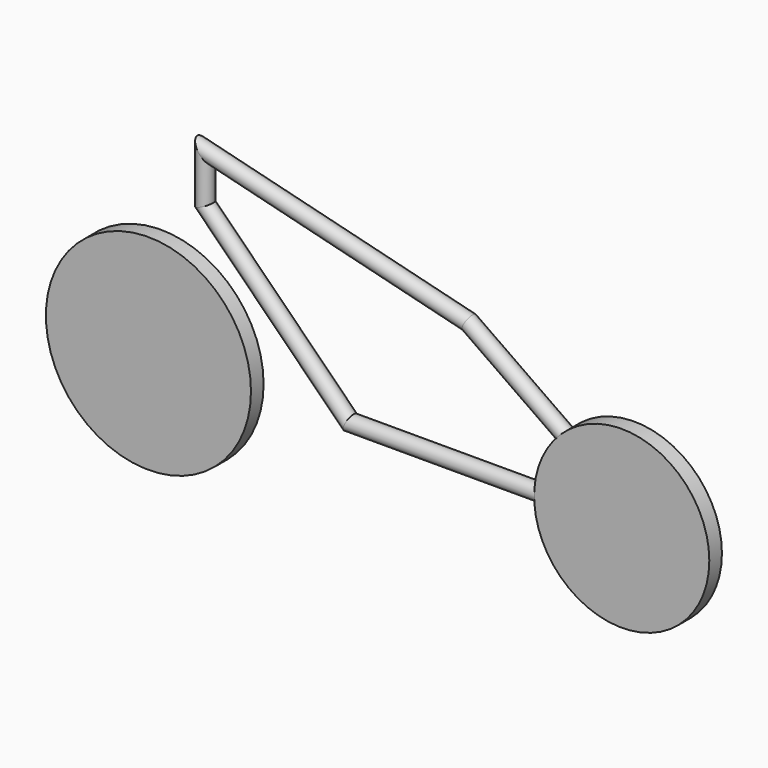
from build123d import *

# Parameters (mm, degrees)
F0_R     = 27.7583541482
F1_DEPTH = 2.5
F0_R_2   = 32.5
F3_R     = 2.5


with BuildPart() as f1:
    # F0 (on Front) → F1 (new body, symmetric)
    with BuildSketch(Plane.XZ):
        with Locations((70, 0)):
            Circle(F0_R)
    extrude(amount=F1_DEPTH, both=True)


with BuildPart() as f1b:
    # F0 (on Front) → F1, piece 2 (new body, symmetric)
    with BuildSketch(Plane.XZ):
        with Locations((-80, 0)):
            Circle(F0_R_2)
    extrude(amount=F1_DEPTH, both=True)


with BuildPart() as f4:
    # F4: sweep along a path in F2
    with BuildLine(Plane.XZ) as f4_path:
        Line((76.965931304, 0), (-18.034068696, 0))
        Line((-18.034068696, 0), (-63.9960094731, 45.9619407771))
        Line((-63.9960094731, 45.9619407771), (-63.9960094731, 60.9619407771))
        Line((-63.9960094731, 60.9619407771), (19.6252882037, 40.1503505446))
        Line((19.6252882037, 40.1503505446), (76.965931304, 0))
    # F3 (on Right) → F4 (sweep)
    with BuildSketch(Plane.YZ):
        Circle(F3_R)
    sweep(path=f4_path.line, transition=Transition.RIGHT)


solid = Compound([f1.part, f1b.part, f4.part])
